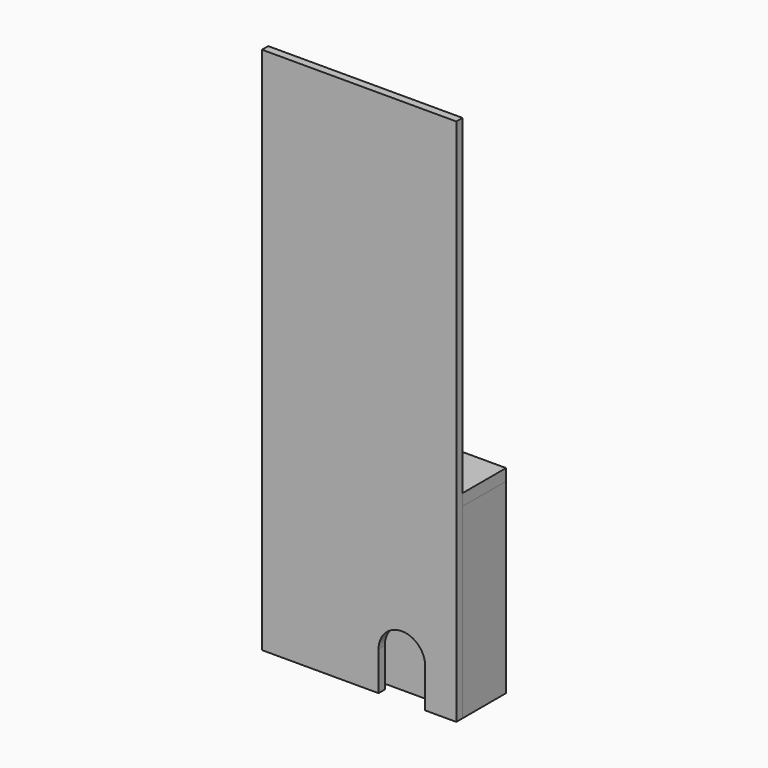
from build123d import *

# Parameters (mm, degrees)
F0_W      = 317.5
F0_H      = 863.6
F1_DEPTH  = 12.7
F3_DEPTH  = 304.8
F4_W      = 254
F4_H      = 152.4
F4_W_2    = 12.7
F5_DEPTH  = 12.7
F7_DEPTH  = 12.7
F8_W      = 317.5
F8_H      = 88.9
F9_DEPTH  = 19.05
F10_R     = 6.35
F11_DEPTH = 25.4
F13_DEPTH = 127
F14_W     = 88.9
F14_H     = 76.2
F15_DEPTH = 114.3


with BuildPart() as f1:
    # F0 (on Front) → F1 (new body)
    with BuildSketch(Plane.XZ):
        Rectangle(F0_W, F0_H)
    extrude(amount=F1_DEPTH)

    # F6 (on face) → F7 (cut)
    with BuildSketch(Plane.XZ.offset(12.7)):
        with BuildLine():
            Line((31.75, -368.3), (31.75, -431.8))
            Line((31.75, -431.8), (107.95, -431.8))
            Line((107.95, -431.8), (107.95, -368.3))
            ThreePointArc((107.95, -368.3), (69.85, -330.2), (31.75, -368.3))
        make_face()
    extrude(amount=-F7_DEPTH, mode=Mode.SUBTRACT)


with BuildPart() as f3:
    # F2 (on face) → F3 (new body)
    with BuildSketch(Plane(origin=(0, 0, -431.8), x_dir=(1, 0, 0), z_dir=(0, 0, -1))):
        Polygon((-120.65, 0), (-158.75, 0), (-158.75, -88.9), (-120.65, -88.9), (-120.65, -25.4), (-133.35, -25.4), (-133.35, -12.7), (-120.65, -12.7), align=None)
    extrude(amount=-F3_DEPTH)


with BuildPart() as f3b:
    # F2 (on face) → F3, piece 2 (new body)
    with BuildSketch(Plane(origin=(0, 0, -431.8), x_dir=(1, 0, 0), z_dir=(0, 0, -1))):
        Polygon((133.35, -25.4), (120.65, -25.4), (120.65, -88.9), (158.75, -88.9), (158.75, 0), (120.65, 0), (120.65, -12.7), (133.35, -12.7), align=None)
    extrude(amount=-F3_DEPTH)


with BuildPart() as f5:
    # F4 (on face) → F5 (new body)
    with BuildSketch(Plane(origin=(0, 12.7, 0), x_dir=(-1, 0, 0), z_dir=(0, 1, 0))):
        with Locations((-6.35, -355.6)):
            Rectangle(F4_W, F4_H)
        with Locations((127, -355.6)):
            Rectangle(F4_W_2, F4_H)
    extrude(amount=F5_DEPTH)


with BuildPart() as f9:
    # F8 (on face) → F9 (new body)
    with BuildSketch(Plane.XY.offset(-127)):
        with Locations((0, 44.45)):
            Rectangle(F8_W, F8_H)
    extrude(amount=F9_DEPTH)

    # F10 (on face) → F11 (cut)
    with BuildSketch(Plane.XY.offset(-107.95)):
        with Locations((0, 14.8885902017)):
            Circle(F10_R)
    extrude(amount=-F11_DEPTH, mode=Mode.SUBTRACT)


with BuildPart() as f13:
    # F12 (on face) → F13 (new body)
    with BuildSketch(Plane(origin=(0, 0, -431.8), x_dir=(1, 0, 0), z_dir=(0, 0, -1))):
        Polygon((120.65, -25.4), (6.35, -25.4), (6.35, -114.3), (120.65, -114.3), (120.65, -88.9), align=None)
    extrude(amount=-F13_DEPTH)

    # F14 (on face) → F15 (cut)
    with BuildSketch(Plane(origin=(0, 0, -431.8), x_dir=(1, 0, 0), z_dir=(0, 0, -1))):
        with Locations((63.5, -63.5)):
            Rectangle(F14_W, F14_H)
    extrude(amount=-F15_DEPTH, mode=Mode.SUBTRACT)


solid = Compound([f1.part, f3.part, f3b.part, f5.part, f9.part, f13.part])
